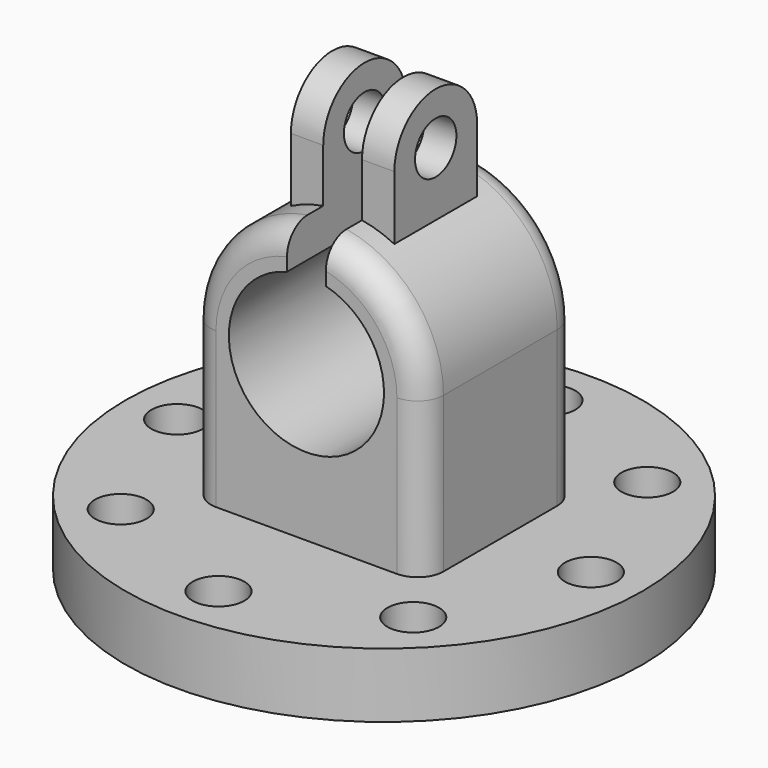
from build123d import *

# Parameters (mm, degrees)
SKETCH_R           = 20
PAD_DEPTH          = 5
PAD001_DEPTH       = 7.5
PAD002_DEPTH       = 4
SKETCH003_R        = 2
POCKET_DEPTH       = 24.001
POCKET001_DEPTH    = 27.501
SKETCH005_R        = 2
POCKET002_DEPTH    = 137.001
POLARPATTERN_COUNT = 8
FILLET_R           = 2


with BuildPart() as part:
    # Sketch → Pad (new body)
    with BuildSketch(Plane.XY):
        Circle(SKETCH_R)
    extrude(amount=PAD_DEPTH)

    # Sketch001 → Pad001 (join, symmetric)
    with BuildSketch(Plane.XZ):
        with BuildLine():
            Line((-9, 17), (-9, 5))
            Line((-9, 5), (9, 5))
            Line((9, 5), (9, 17))
            ThreePointArc((9, 17), (0, 26), (-9, 17))
        make_face()
    extrude(amount=PAD001_DEPTH, both=True)

    # Sketch002 → Pad002 (join, symmetric)
    with BuildSketch(Plane.YZ):
        with BuildLine():
            Line((-4, 16.19), (-4, 30))
            ThreePointArc((4, 30), (0, 34), (-4, 30))
            Line((4, 30), (4, 16.19))
            Line((4, 16.19), (-4, 16.19))
        make_face()
    extrude(amount=PAD002_DEPTH, both=True)

    # Sketch003 (on Face11 of Pad002) → Pocket (cut, through all)
    with BuildSketch(Plane.YZ.offset(4)):
        with Locations((0, 30)):
            Circle(SKETCH003_R)
    extrude(amount=-POCKET_DEPTH, mode=Mode.SUBTRACT)

    # Sketch004 (on Face5 of Pocket) → Pocket001 (cut, through all)
    with BuildSketch(Plane.XZ.offset(7.5)):
        with BuildLine():
            ThreePointArc((-1.5, 22.809475), (0, 11), (1.5, 22.809475))
            Line((1.5, 38), (1.5, 22.809475))
            Line((-1.5, 38), (1.5, 38))
            Line((-1.5, 22.809475), (-1.5, 38))
        make_face()
    extrude(amount=-POCKET001_DEPTH, mode=Mode.SUBTRACT)

    # Sketch005 (on Face3 of Pocket001) → Pocket002 (cut, through all)
    with BuildSketch(Plane.XY.offset(5)):
        with Locations((16, 0)):
            Circle(SKETCH005_R)
    pocket002 = extrude(amount=-POCKET002_DEPTH, mode=Mode.SUBTRACT)

    # PolarPattern: Pocket002 ×8 about axis
    polarpattern_axis = Axis((0, 0, 5), (0, 0, 1))
    for i in range(1, POLARPATTERN_COUNT):
        add(pocket002.rotate(polarpattern_axis, i * 360 / POLARPATTERN_COUNT), mode=Mode.SUBTRACT)

    # Fillet
    fillet_edges = [part.edges().sort_by_distance(p)[0] for p in [
        (-6.873864, 7.5, 22.809475),
        (-6.873864, -7.5, 22.809475),
        (6.873864, -7.5, 22.809475),
        (6.873864, 7.5, 22.809475),
    ]]
    fillet(fillet_edges, radius=FILLET_R)


solid = part.part
